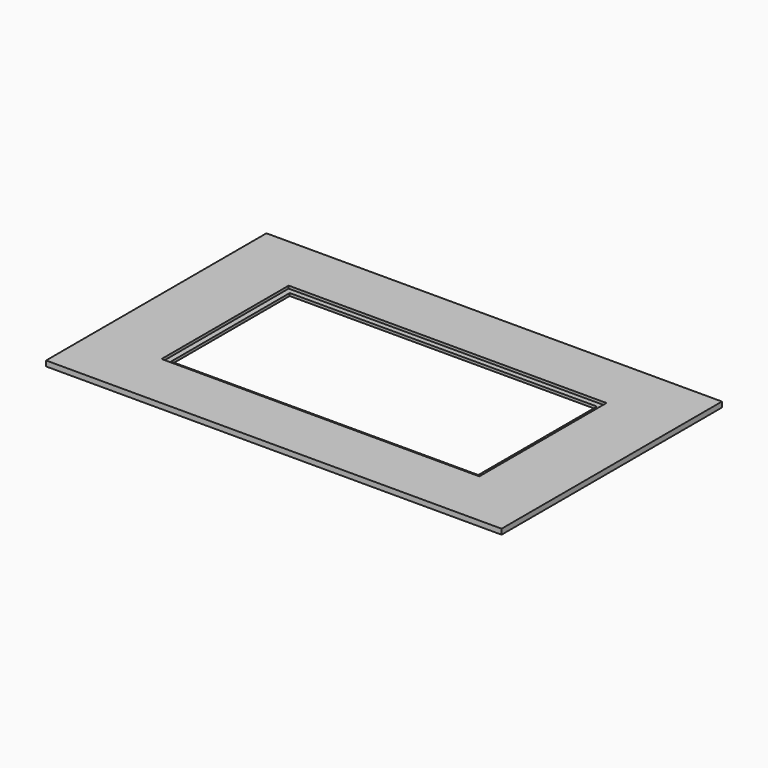
from build123d import *

# Parameters (mm, degrees)
F0_W     = 1092.2
F0_H     = 660.4
F0_W_2   = 762
F0_H_2   = 381
F0_W_3   = 736.6
F0_H_3   = 355.6
F1_DEPTH = 6.35
F2_DEPTH = 12.7


with BuildPart() as f1:
    # F0 (on Top) → F1 (new body)
    with BuildSketch(Plane.XY):
        with Locations((-500.782648, 283.866385)):
            Rectangle(F0_W, F0_H)
        with Locations((-500.782648, 283.866385)):
            Rectangle(F0_W_2, F0_H_2, mode=Mode.SUBTRACT)
        with Locations((-500.782648, 283.866385)):
            Rectangle(F0_W_2, F0_H_2)
        with Locations((-500.782648, 283.866385)):
            Rectangle(F0_W_3, F0_H_3, mode=Mode.SUBTRACT)
    extrude(amount=F1_DEPTH)

    # F0 (on Top) → F2 (join)
    with BuildSketch(Plane.XY):
        with Locations((-500.782648, 283.866385)):
            Rectangle(F0_W, F0_H)
        with Locations((-500.782648, 283.866385)):
            Rectangle(F0_W_2, F0_H_2, mode=Mode.SUBTRACT)
    extrude(amount=F2_DEPTH)


solid = f1.part
